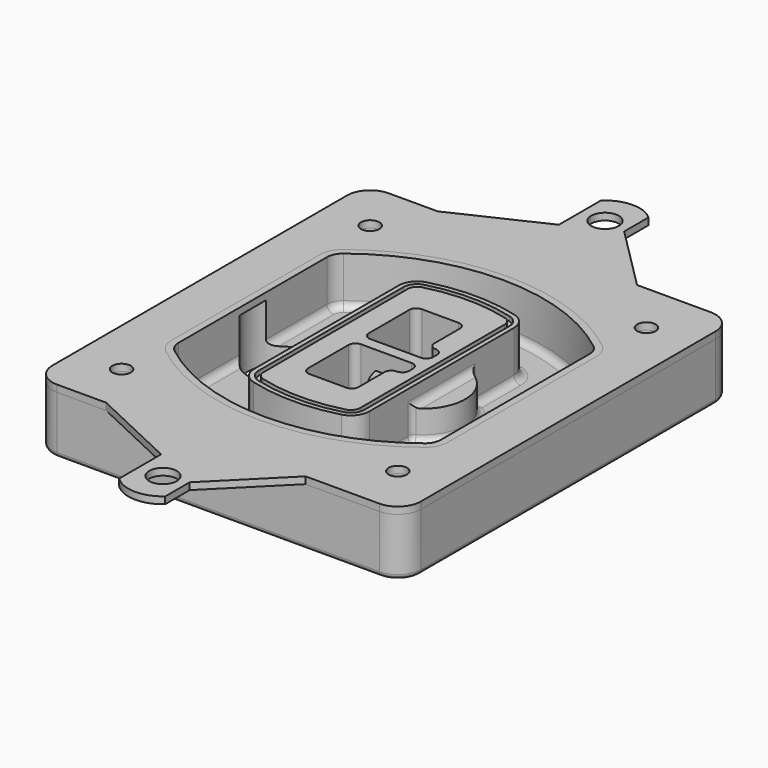
from build123d import *

# Parameters (mm, degrees)
F0_R      = 4
F1_DEPTH  = 25
F2_DEPTH  = 3
F3_DEPTH  = 18
F5_DEPTH  = 21
F6_DEPTH  = 2
F8_DEPTH  = 20
F9_DEPTH  = 16
F10_DEPTH = 25
F7_R      = 6
F7_R_2    = 4
F11_DEPTH = 6
F13_DEPTH = 9
F14_R     = 3
F15_R     = 2
F16_R     = 6
F16_R_2   = 4
F17_DEPTH = 3


with BuildPart() as f1:
    # F0 (on Top) → F1 (new body)
    with BuildSketch(Plane.XY):
        with BuildLine():
            ThreePointArc((-80, -80), (-77.0710678119, -87.0710678119), (-70, -90))
            Line((-70, -90), (70, -90))
            ThreePointArc((70, -90), (77.0710678119, -87.0710678119), (80, -80))
            Line((80, -80), (80, 80))
            ThreePointArc((80, 80), (77.0710678119, 87.0710678119), (70, 90))
            Line((70, 90), (-70, 90))
            ThreePointArc((-70, 90), (-77.0710678119, 87.0710678119), (-80, 80))
            Line((-80, 80), (-80, -80))
        make_face()
        with Locations((-60, -67.5)):
            Circle(F0_R, mode=Mode.SUBTRACT)
        with Locations((60, -67.5)):
            Circle(F0_R, mode=Mode.SUBTRACT)
        with Locations((-60, 67.5)):
            Circle(F0_R, mode=Mode.SUBTRACT)
        with BuildLine():
            ThreePointArc((-64, 40.2934422872), (-62.5820384798, 46.4328484224), (-58.6153846154, 51.3286200352))
            ThreePointArc((-58.6153846154, 51.3286200352), (0, 71.5), (58.6153846154, 51.3286200352))
            ThreePointArc((58.6153846154, 51.3286200352), (62.5820384798, 46.4328484224), (64, 40.2934422872))
            Line((64, 40.2934422872), (64, -40.2934422872))
            ThreePointArc((64, -40.2934422872), (62.5820384798, -46.4328484224), (58.6153846154, -51.3286200352))
            ThreePointArc((58.6153846154, -51.3286200352), (0, -71.5), (-58.6153846154, -51.3286200352))
            ThreePointArc((-58.6153846154, -51.3286200352), (-62.5820384798, -46.4328484224), (-64, -40.2934422872))
            Line((-64, -40.2934422872), (-64, 40.2934422872))
        make_face(mode=Mode.SUBTRACT)
        with Locations((60, 67.5)):
            Circle(F0_R, mode=Mode.SUBTRACT)
        with BuildLine():
            ThreePointArc((58.6153846154, 51.3286200352), (0, 71.5), (-58.6153846154, 51.3286200352))
            ThreePointArc((-58.6153846154, 51.3286200352), (-62.5820384798, 46.4328484224), (-64, 40.2934422872))
            Line((-64, 40.2934422872), (-64, -40.2934422872))
            ThreePointArc((-64, -40.2934422872), (-62.5820384798, -46.4328484224), (-58.6153846154, -51.3286200352))
            ThreePointArc((-58.6153846154, -51.3286200352), (0, -71.5), (58.6153846154, -51.3286200352))
            ThreePointArc((58.6153846154, -51.3286200352), (62.5820384798, -46.4328484224), (64, -40.2934422872))
            Line((64, -40.2934422872), (64, 40.2934422872))
            ThreePointArc((64, 40.2934422872), (62.5820384798, 46.4328484224), (58.6153846154, 51.3286200352))
        make_face()
        with BuildLine():
            Line((-60, -40.2934422872), (-60, 40.2934422872))
            ThreePointArc((-60, 40.2934422872), (-58.9871703427, 44.6787323838), (-56.1538461538, 48.1757121072))
            ThreePointArc((-56.1538461538, 48.1757121072), (0, 67.5), (56.1538461538, 48.1757121072))
            ThreePointArc((56.1538461538, 48.1757121072), (58.9871703427, 44.6787323838), (60, 40.2934422872))
            Line((60, 40.2934422872), (60, -40.2934422872))
            ThreePointArc((60, -40.2934422872), (58.9871703427, -44.6787323838), (56.1538461538, -48.1757121072))
            ThreePointArc((56.1538461538, -48.1757121072), (0, -67.5), (-56.1538461538, -48.1757121072))
            ThreePointArc((-56.1538461538, -48.1757121072), (-58.9871703427, -44.6787323838), (-60, -40.2934422872))
        make_face(mode=Mode.SUBTRACT)
        with BuildLine():
            ThreePointArc((-56.1538461538, 48.1757121072), (-58.9871703427, 44.6787323838), (-60, 40.2934422872))
            Line((-60, 40.2934422872), (-60, -40.2934422872))
            ThreePointArc((-60, -40.2934422872), (-58.9871703427, -44.6787323838), (-56.1538461538, -48.1757121072))
            ThreePointArc((-56.1538461538, -48.1757121072), (0, -67.5), (56.1538461538, -48.1757121072))
            ThreePointArc((56.1538461538, -48.1757121072), (58.9871703427, -44.6787323838), (60, -40.2934422872))
            Line((60, -40.2934422872), (60, 40.2934422872))
            ThreePointArc((60, 40.2934422872), (58.9871703427, 44.6787323838), (56.1538461538, 48.1757121072))
            ThreePointArc((56.1538461538, 48.1757121072), (0, 67.5), (-56.1538461538, 48.1757121072))
        make_face()
        with BuildLine():
            ThreePointArc((54.3076923077, 45.8110311612), (56.2910192399, 43.3631453548), (57, 40.2934422872))
            Line((57, 40.2934422872), (57, -40.2934422872))
            ThreePointArc((57, -40.2934422872), (56.2910192399, -43.3631453548), (54.3076923077, -45.8110311612))
            ThreePointArc((54.3076923077, -45.8110311612), (0, -64.5), (-54.3076923077, -45.8110311612))
            ThreePointArc((-54.3076923077, -45.8110311612), (-56.2910192399, -43.3631453548), (-57, -40.2934422872))
            Line((-57, -40.2934422872), (-57, 40.2934422872))
            ThreePointArc((-57, 40.2934422872), (-56.2910192399, 43.3631453548), (-54.3076923077, 45.8110311612))
            ThreePointArc((-54.3076923077, 45.8110311612), (0, 64.5), (54.3076923077, 45.8110311612))
        make_face(mode=Mode.SUBTRACT)
        with BuildLine():
            Line((57, -40.2934422872), (57, 40.2934422872))
            ThreePointArc((57, 40.2934422872), (56.2910192399, 43.3631453548), (54.3076923077, 45.8110311612))
            ThreePointArc((54.3076923077, 45.8110311612), (0, 64.5), (-54.3076923077, 45.8110311612))
            ThreePointArc((-54.3076923077, 45.8110311612), (-56.2910192399, 43.3631453548), (-57, 40.2934422872))
            Line((-57, 40.2934422872), (-57, -40.2934422872))
            ThreePointArc((-57, -40.2934422872), (-56.2910192399, -43.3631453548), (-54.3076923077, -45.8110311612))
            ThreePointArc((-54.3076923077, -45.8110311612), (0, -64.5), (54.3076923077, -45.8110311612))
            ThreePointArc((54.3076923077, -45.8110311612), (56.2910192399, -43.3631453548), (57, -40.2934422872))
        make_face()
    extrude(amount=-F1_DEPTH)

    # F0 (on Top) → F2 (join)
    with BuildSketch(Plane.XY):
        with BuildLine():
            ThreePointArc((-56.1538461538, 48.1757121072), (-58.9871703427, 44.6787323838), (-60, 40.2934422872))
            Line((-60, 40.2934422872), (-60, -40.2934422872))
            ThreePointArc((-60, -40.2934422872), (-58.9871703427, -44.6787323838), (-56.1538461538, -48.1757121072))
            ThreePointArc((-56.1538461538, -48.1757121072), (0, -67.5), (56.1538461538, -48.1757121072))
            ThreePointArc((56.1538461538, -48.1757121072), (58.9871703427, -44.6787323838), (60, -40.2934422872))
            Line((60, -40.2934422872), (60, 40.2934422872))
            ThreePointArc((60, 40.2934422872), (58.9871703427, 44.6787323838), (56.1538461538, 48.1757121072))
            ThreePointArc((56.1538461538, 48.1757121072), (0, 67.5), (-56.1538461538, 48.1757121072))
        make_face()
        with BuildLine():
            ThreePointArc((54.3076923077, 45.8110311612), (56.2910192399, 43.3631453548), (57, 40.2934422872))
            Line((57, 40.2934422872), (57, -40.2934422872))
            ThreePointArc((57, -40.2934422872), (56.2910192399, -43.3631453548), (54.3076923077, -45.8110311612))
            ThreePointArc((54.3076923077, -45.8110311612), (0, -64.5), (-54.3076923077, -45.8110311612))
            ThreePointArc((-54.3076923077, -45.8110311612), (-56.2910192399, -43.3631453548), (-57, -40.2934422872))
            Line((-57, -40.2934422872), (-57, 40.2934422872))
            ThreePointArc((-57, 40.2934422872), (-56.2910192399, 43.3631453548), (-54.3076923077, 45.8110311612))
            ThreePointArc((-54.3076923077, 45.8110311612), (0, 64.5), (54.3076923077, 45.8110311612))
        make_face(mode=Mode.SUBTRACT)
    extrude(amount=F2_DEPTH)

    # F0 (on Top) → F3 (cut)
    with BuildSketch(Plane.XY):
        with BuildLine():
            Line((57, -40.2934422872), (57, 40.2934422872))
            ThreePointArc((57, 40.2934422872), (56.2910192399, 43.3631453548), (54.3076923077, 45.8110311612))
            ThreePointArc((54.3076923077, 45.8110311612), (0, 64.5), (-54.3076923077, 45.8110311612))
            ThreePointArc((-54.3076923077, 45.8110311612), (-56.2910192399, 43.3631453548), (-57, 40.2934422872))
            Line((-57, 40.2934422872), (-57, -40.2934422872))
            ThreePointArc((-57, -40.2934422872), (-56.2910192399, -43.3631453548), (-54.3076923077, -45.8110311612))
            ThreePointArc((-54.3076923077, -45.8110311612), (0, -64.5), (54.3076923077, -45.8110311612))
            ThreePointArc((54.3076923077, -45.8110311612), (56.2910192399, -43.3631453548), (57, -40.2934422872))
        make_face()
    extrude(amount=-F3_DEPTH, mode=Mode.SUBTRACT)

    # F4 (on face) → F5 (join, through all)
    with BuildSketch(Plane.XY.offset(3)):
        with BuildLine():
            ThreePointArc((-25, -39.2465276821), (-23.3511545998, -44.1109737193), (-19.0842911877, -46.9702398883))
            ThreePointArc((-19.0842911877, -46.9702398883), (0, -49.5), (19.0842911877, -46.9702398883))
            ThreePointArc((19.0842911877, -46.9702398883), (23.3511545998, -44.1109737193), (25, -39.2465276821))
            Line((25, -39.2465276821), (25, 39.2465276821))
            ThreePointArc((25, 39.2465276821), (23.3511545998, 44.1109737193), (19.0842911877, 46.9702398883))
            ThreePointArc((19.0842911877, 46.9702398883), (0, 49.5), (-19.0842911877, 46.9702398883))
            ThreePointArc((-19.0842911877, 46.9702398883), (-23.3511545998, 44.1109737193), (-25, 39.2465276821))
            Line((-25, 39.2465276821), (-25, -39.2465276821))
        make_face()
        with BuildLine():
            ThreePointArc((18.5632183908, 45.0393118368), (21.7633659499, 42.89486221), (23, 39.2465276821))
            Line((23, 39.2465276821), (23, -39.2465276821))
            ThreePointArc((23, -39.2465276821), (21.7633659499, -42.89486221), (18.5632183908, -45.0393118368))
            ThreePointArc((18.5632183908, -45.0393118368), (0, -47.5), (-18.5632183908, -45.0393118368))
            ThreePointArc((-18.5632183908, -45.0393118368), (-21.7633659499, -42.89486221), (-23, -39.2465276821))
            Line((-23, -39.2465276821), (-23, 39.2465276821))
            ThreePointArc((-23, 39.2465276821), (-21.7633659499, 42.89486221), (-18.5632183908, 45.0393118368))
            ThreePointArc((-18.5632183908, 45.0393118368), (0, 47.5), (18.5632183908, 45.0393118368))
        make_face(mode=Mode.SUBTRACT)
        with BuildLine():
            Line((23, -39.2465276821), (23, 39.2465276821))
            ThreePointArc((23, 39.2465276821), (21.7633659499, 42.89486221), (18.5632183908, 45.0393118368))
            ThreePointArc((18.5632183908, 45.0393118368), (0, 47.5), (-18.5632183908, 45.0393118368))
            ThreePointArc((-18.5632183908, 45.0393118368), (-21.7633659499, 42.89486221), (-23, 39.2465276821))
            Line((-23, 39.2465276821), (-23, -39.2465276821))
            ThreePointArc((-23, -39.2465276821), (-21.7633659499, -42.89486221), (-18.5632183908, -45.0393118368))
            ThreePointArc((-18.5632183908, -45.0393118368), (0, -47.5), (18.5632183908, -45.0393118368))
            ThreePointArc((18.5632183908, -45.0393118368), (21.7633659499, -42.89486221), (23, -39.2465276821))
        make_face()
        with BuildLine():
            ThreePointArc((18.0421455939, 43.1083837852), (20.1755772999, 41.6787507007), (21, 39.2465276821))
            Line((21, 39.2465276821), (21, -39.2465276821))
            ThreePointArc((21, -39.2465276821), (20.1755772999, -41.6787507007), (18.0421455939, -43.1083837852))
            ThreePointArc((18.0421455939, -43.1083837852), (0, -45.5), (-18.0421455939, -43.1083837852))
            ThreePointArc((-18.0421455939, -43.1083837852), (-20.1755772999, -41.6787507007), (-21, -39.2465276821))
            Line((-21, -39.2465276821), (-21, 39.2465276821))
            ThreePointArc((-21, 39.2465276821), (-20.1755772999, 41.6787507007), (-18.0421455939, 43.1083837852))
            ThreePointArc((-18.0421455939, 43.1083837852), (0, 45.5), (18.0421455939, 43.1083837852))
        make_face(mode=Mode.SUBTRACT)
        with BuildLine():
            Line((21, -39.2465276821), (21, 39.2465276821))
            ThreePointArc((21, 39.2465276821), (20.1755772999, 41.6787507007), (18.0421455939, 43.1083837852))
            ThreePointArc((18.0421455939, 43.1083837852), (0, 45.5), (-18.0421455939, 43.1083837852))
            ThreePointArc((-18.0421455939, 43.1083837852), (-20.1755772999, 41.6787507007), (-21, 39.2465276821))
            Line((-21, 39.2465276821), (-21, -39.2465276821))
            ThreePointArc((-21, -39.2465276821), (-20.1755772999, -41.6787507007), (-18.0421455939, -43.1083837852))
            ThreePointArc((-18.0421455939, -43.1083837852), (0, -45.5), (18.0421455939, -43.1083837852))
            ThreePointArc((18.0421455939, -43.1083837852), (20.1755772999, -41.6787507007), (21, -39.2465276821))
        make_face()
        with BuildLine():
            Line((-8, -2.5), (14, -2.5))
            ThreePointArc((14, -2.5), (16.1213203436, -3.3786796564), (17, -5.5))
            Line((17, -5.5), (17, -7.5))
            ThreePointArc((17, -7.5), (16.1213203436, -9.6213203436), (14, -10.5))
            ThreePointArc((14, -10.5), (11.8786796564, -11.3786796564), (11, -13.5))
            Line((11, -13.5), (11, -27.5))
            ThreePointArc((11, -27.5), (10.1213203436, -29.6213203436), (8, -30.5))
            Line((8, -30.5), (-8, -30.5))
            ThreePointArc((-8, -30.5), (-10.1213203436, -29.6213203436), (-11, -27.5))
            Line((-11, -27.5), (-11, -5.5))
            ThreePointArc((-11, -5.5), (-10.1213203436, -3.3786796564), (-8, -2.5))
        make_face(mode=Mode.SUBTRACT)
        with BuildLine():
            ThreePointArc((-8, 2.5), (-10.1213203436, 3.3786796564), (-11, 5.5))
            Line((-11, 5.5), (-11, 27.5))
            ThreePointArc((-11, 27.5), (-10.1213203436, 29.6213203436), (-8, 30.5))
            Line((-8, 30.5), (8, 30.5))
            ThreePointArc((8, 30.5), (10.1213203436, 29.6213203436), (11, 27.5))
            Line((11, 27.5), (11, 13.5))
            ThreePointArc((11, 13.5), (11.8786796564, 11.3786796564), (14, 10.5))
            ThreePointArc((14, 10.5), (16.1213203436, 9.6213203436), (17, 7.5))
            Line((17, 7.5), (17, 5.5))
            ThreePointArc((17, 5.5), (16.1213203436, 3.3786796564), (14, 2.5))
            Line((14, 2.5), (-8, 2.5))
        make_face(mode=Mode.SUBTRACT)
    extrude(amount=-F5_DEPTH)

    # F4 (on face) → F6 (cut)
    with BuildSketch(Plane.XY.offset(3)):
        with BuildLine():
            Line((23, -39.2465276821), (23, 39.2465276821))
            ThreePointArc((23, 39.2465276821), (21.7633659499, 42.89486221), (18.5632183908, 45.0393118368))
            ThreePointArc((18.5632183908, 45.0393118368), (0, 47.5), (-18.5632183908, 45.0393118368))
            ThreePointArc((-18.5632183908, 45.0393118368), (-21.7633659499, 42.89486221), (-23, 39.2465276821))
            Line((-23, 39.2465276821), (-23, -39.2465276821))
            ThreePointArc((-23, -39.2465276821), (-21.7633659499, -42.89486221), (-18.5632183908, -45.0393118368))
            ThreePointArc((-18.5632183908, -45.0393118368), (0, -47.5), (18.5632183908, -45.0393118368))
            ThreePointArc((18.5632183908, -45.0393118368), (21.7633659499, -42.89486221), (23, -39.2465276821))
        make_face()
        with BuildLine():
            ThreePointArc((18.0421455939, 43.1083837852), (20.1755772999, 41.6787507007), (21, 39.2465276821))
            Line((21, 39.2465276821), (21, -39.2465276821))
            ThreePointArc((21, -39.2465276821), (20.1755772999, -41.6787507007), (18.0421455939, -43.1083837852))
            ThreePointArc((18.0421455939, -43.1083837852), (0, -45.5), (-18.0421455939, -43.1083837852))
            ThreePointArc((-18.0421455939, -43.1083837852), (-20.1755772999, -41.6787507007), (-21, -39.2465276821))
            Line((-21, -39.2465276821), (-21, 39.2465276821))
            ThreePointArc((-21, 39.2465276821), (-20.1755772999, 41.6787507007), (-18.0421455939, 43.1083837852))
            ThreePointArc((-18.0421455939, 43.1083837852), (0, 45.5), (18.0421455939, 43.1083837852))
        make_face(mode=Mode.SUBTRACT)
    extrude(amount=-F6_DEPTH, mode=Mode.SUBTRACT)

    # F7 (on face) → F8 (join)
    with BuildSketch(Plane(origin=(0, 0, -25), x_dir=(1, 0, 0), z_dir=(0, 0, -1))):
        with BuildLine():
            ThreePointArc((3.28842436, 0), (16.7567035675, 13.4682792075), (30.224982775, 0))
            Line((30.224982775, 0), (35.224982775, 0))
            ThreePointArc((35.224982775, 0), (16.7567035675, 18.4682792075), (-1.71157564, 0))
            Line((-1.71157564, 0), (3.28842436, 0))
        make_face()
        with BuildLine():
            Line((3.28842436, 0), (30.224982775, 0))
            ThreePointArc((30.224982775, 0), (16.7567035675, 13.4682792075), (3.28842436, 0))
        make_face()
        with BuildLine():
            ThreePointArc((3.28842436, 0), (16.7567035675, -13.4682792075), (30.224982775, 0))
            Line((30.224982775, 0), (3.28842436, 0))
        make_face()
        with BuildLine():
            Line((35.224982775, 0), (30.224982775, 0))
            ThreePointArc((30.224982775, 0), (16.7567035675, -13.4682792075), (3.28842436, 0))
            Line((3.28842436, 0), (-1.71157564, 0))
            ThreePointArc((-1.71157564, 0), (16.7567035675, -18.4682792075), (35.224982775, 0))
        make_face()
    extrude(amount=-F8_DEPTH)

    # F7 (on face) → F9 (cut)
    with BuildSketch(Plane(origin=(0, 0, -25), x_dir=(1, 0, 0), z_dir=(0, 0, -1))):
        with BuildLine():
            Line((3.28842436, 0), (30.224982775, 0))
            ThreePointArc((30.224982775, 0), (16.7567035675, 13.4682792075), (3.28842436, 0))
        make_face()
        with BuildLine():
            ThreePointArc((3.28842436, 0), (16.7567035675, -13.4682792075), (30.224982775, 0))
            Line((30.224982775, 0), (3.28842436, 0))
        make_face()
    extrude(amount=-F9_DEPTH, mode=Mode.SUBTRACT)

    # F7 (on face) → F10 (cut)
    with BuildSketch(Plane(origin=(0, 0, -25), x_dir=(1, 0, 0), z_dir=(0, 0, -1))):
        with BuildLine():
            Line((-59.0318229325, 0), (-32.0952645175, 0))
            ThreePointArc((-32.0952645175, 0), (-45.563543725, 13.4682792075), (-59.0318229325, 0))
        make_face()
        with BuildLine():
            ThreePointArc((-59.0318229325, 0), (-45.563543725, -13.4682792075), (-32.0952645175, 0))
            Line((-32.0952645175, 0), (-59.0318229325, 0))
        make_face()
    extrude(amount=-F10_DEPTH, mode=Mode.SUBTRACT)

    # F7 (on face) → F11 (cut)
    with BuildSketch(Plane(origin=(0, 0, -25), x_dir=(1, 0, 0), z_dir=(0, 0, -1))):
        with Locations((60, -67.5)):
            Circle(F7_R)
        with Locations((60, -67.5)):
            Circle(F7_R_2, mode=Mode.SUBTRACT)
        with Locations((60, -67.5)):
            Circle(F7_R)
        with Locations((60, -67.5)):
            Circle(F7_R_2, mode=Mode.SUBTRACT)
        with Locations((-60, -67.5)):
            Circle(F7_R)
        with Locations((-60, -67.5)):
            Circle(F7_R_2, mode=Mode.SUBTRACT)
        with Locations((-60, -67.5)):
            Circle(F7_R)
        with Locations((-60, -67.5)):
            Circle(F7_R_2, mode=Mode.SUBTRACT)
        with Locations((-60, 67.5)):
            Circle(F7_R)
        with Locations((-60, 67.5)):
            Circle(F7_R_2, mode=Mode.SUBTRACT)
        with Locations((-60, 67.5)):
            Circle(F7_R)
        with Locations((-60, 67.5)):
            Circle(F7_R_2, mode=Mode.SUBTRACT)
        with Locations((60, 67.5)):
            Circle(F7_R)
        with Locations((60, 67.5)):
            Circle(F7_R_2, mode=Mode.SUBTRACT)
        with Locations((60, 67.5)):
            Circle(F7_R)
        with Locations((60, 67.5)):
            Circle(F7_R_2, mode=Mode.SUBTRACT)
    extrude(amount=-F11_DEPTH, mode=Mode.SUBTRACT)

    # F12 (on face) → F13 (cut, through all)
    with BuildSketch(Plane(origin=(0, 0, -9), x_dir=(1, 0, 0), z_dir=(0, 0, -1))):
        with BuildLine():
            Line((11, 13.5), (11, 17.5481537753))
            ThreePointArc((11, 17.5481537753), (2.5696536419, 11.8239143813), (-1.5415842455, 2.5))
            Line((-1.5415842455, 2.5), (3.5224848595, 2.5))
            ThreePointArc((3.5224848595, 2.5), (6.1857188154, 8.3455872281), (11.2536447004, 12.2927168648))
            ThreePointArc((11.2536447004, 12.2927168648), (11.0640958889, 12.8831798879), (11, 13.5))
        make_face()
        with BuildLine():
            ThreePointArc((11.2536447004, -12.2927168648), (6.1857188154, -8.3455872281), (3.5224848595, -2.5))
            Line((3.5224848595, -2.5), (-1.5415842455, -2.5))
            ThreePointArc((-1.5415842455, -2.5), (2.5696536419, -11.8239143813), (11, -17.5481537753))
            Line((11, -17.5481537753), (11, -13.5))
            ThreePointArc((11, -13.5), (11.0640958889, -12.8831798879), (11.2536447004, -12.2927168648))
        make_face()
        with BuildLine():
            ThreePointArc((11.2536447004, 12.2927168648), (6.1857188154, 8.3455872281), (3.5224848595, 2.5))
            Line((3.5224848595, 2.5), (14, 2.5))
            ThreePointArc((14, 2.5), (16.1213203436, 3.3786796564), (17, 5.5))
            Line((17, 5.5), (17, 7.5))
            ThreePointArc((17, 7.5), (16.1213203436, 9.6213203436), (14, 10.5))
            ThreePointArc((14, 10.5), (12.3601599782, 10.9878446101), (11.2536447004, 12.2927168648))
        make_face()
        with BuildLine():
            Line((14, -2.5), (3.5224848595, -2.5))
            ThreePointArc((3.5224848595, -2.5), (6.1857188154, -8.3455872281), (11.2536447004, -12.2927168648))
            ThreePointArc((11.2536447004, -12.2927168648), (12.3601599782, -10.9878446101), (14, -10.5))
            ThreePointArc((14, -10.5), (16.1213203436, -9.6213203436), (17, -7.5))
            Line((17, -7.5), (17, -5.5))
            ThreePointArc((17, -5.5), (16.1213203436, -3.3786796564), (14, -2.5))
        make_face()
    extrude(amount=F13_DEPTH, mode=Mode.SUBTRACT)

    # F14
    f14_edges = [f1.edges().sort_by_distance(p)[0] for p in [
        (-57, -23.703476, -18),
        (-57, 23.703476, -18),
        (25, 0, -5),
        (25, 16.526506, -11.5),
        (25, -16.526506, -11.5),
        (25, -27.886517, -18),
        (35.224983, 0, -18),
    ]]
    fillet(f14_edges, radius=F14_R)

    # F15
    f15_edges = [f1.edges().sort_by_distance(p)[0] for p in [
        (0, -90, -25),
    ]]
    fillet(f15_edges, radius=F15_R)


with BuildPart() as f17:
    # F16 (on face) → F17 (new body, through all)
    with BuildSketch(Plane.XY):
        with BuildLine():
            Line((9.9477668632, 117.9754276048), (9.9477668632, 131.2268399132))
            ThreePointArc((9.9477668632, 131.2268399132), (-0.3260074235, 134.9964568869), (-10.4262581732, 130.7839297339))
            Line((-10.4262581732, 130.7839297339), (-10.4262581732, 108))
            Line((-10.4262581732, 108), (-48.6686825752, 90))
            Line((-48.6686825752, 90), (37.923194468, 90))
            Line((37.923194468, 90), (9.9477668632, 117.9754276048))
        make_face()
        with Locations((0, 120)):
            Circle(F16_R, mode=Mode.SUBTRACT)
        with BuildLine():
            Line((9.9477668632, -117.9754276048), (37.923194468, -90))
            Line((37.923194468, -90), (-48.6686825752, -90))
            Line((-48.6686825752, -90), (-10.4262581732, -108))
            Line((-10.4262581732, -108), (-10.4262581732, -130.7839297339))
            ThreePointArc((-10.4262581732, -130.7839297339), (-0.3260074235, -134.9964568869), (9.9477668632, -131.2268399132))
            Line((9.9477668632, -131.2268399132), (9.9477668632, -117.9754276048))
        make_face()
        with Locations((0, -120)):
            Circle(F16_R, mode=Mode.SUBTRACT)
        with BuildLine():
            Line((70, 90), (37.923194468, 90))
            Line((37.923194468, 90), (-48.6686825752, 90))
            Line((-48.6686825752, 90), (-70, 90))
            ThreePointArc((-70, 90), (-77.0710678119, 87.0710678119), (-80, 80))
            Line((-80, 80), (-80, -80))
            ThreePointArc((-80, -80), (-77.0710678119, -87.0710678119), (-70, -90))
            Line((-70, -90), (-48.6686825752, -90))
            Line((-48.6686825752, -90), (37.923194468, -90))
            Line((37.923194468, -90), (70, -90))
            ThreePointArc((70, -90), (77.0710678119, -87.0710678119), (80, -80))
            Line((80, -80), (80, 80))
            ThreePointArc((80, 80), (77.0710678119, 87.0710678119), (70, 90))
        make_face()
        with Locations((-60, -67.5)):
            Circle(F16_R_2, mode=Mode.SUBTRACT)
        with Locations((60, -67.5)):
            Circle(F16_R_2, mode=Mode.SUBTRACT)
        with Locations((-60, 67.5)):
            Circle(F16_R_2, mode=Mode.SUBTRACT)
        with BuildLine():
            ThreePointArc((-60, 40.2934422872), (-58.9871703427, 44.6787323838), (-56.1538461538, 48.1757121072))
            ThreePointArc((-56.1538461538, 48.1757121072), (0, 67.5), (56.1538461538, 48.1757121072))
            ThreePointArc((56.1538461538, 48.1757121072), (58.9871703427, 44.6787323838), (60, 40.2934422872))
            Line((60, 40.2934422872), (60, -40.2934422872))
            ThreePointArc((60, -40.2934422872), (58.9871703427, -44.6787323838), (56.1538461538, -48.1757121072))
            ThreePointArc((56.1538461538, -48.1757121072), (0, -67.5), (-56.1538461538, -48.1757121072))
            ThreePointArc((-56.1538461538, -48.1757121072), (-58.9871703427, -44.6787323838), (-60, -40.2934422872))
            Line((-60, -40.2934422872), (-60, 40.2934422872))
        make_face(mode=Mode.SUBTRACT)
        with Locations((60, 67.5)):
            Circle(F16_R_2, mode=Mode.SUBTRACT)
    extrude(amount=F17_DEPTH)


solid = Compound([f1.part, f17.part])
